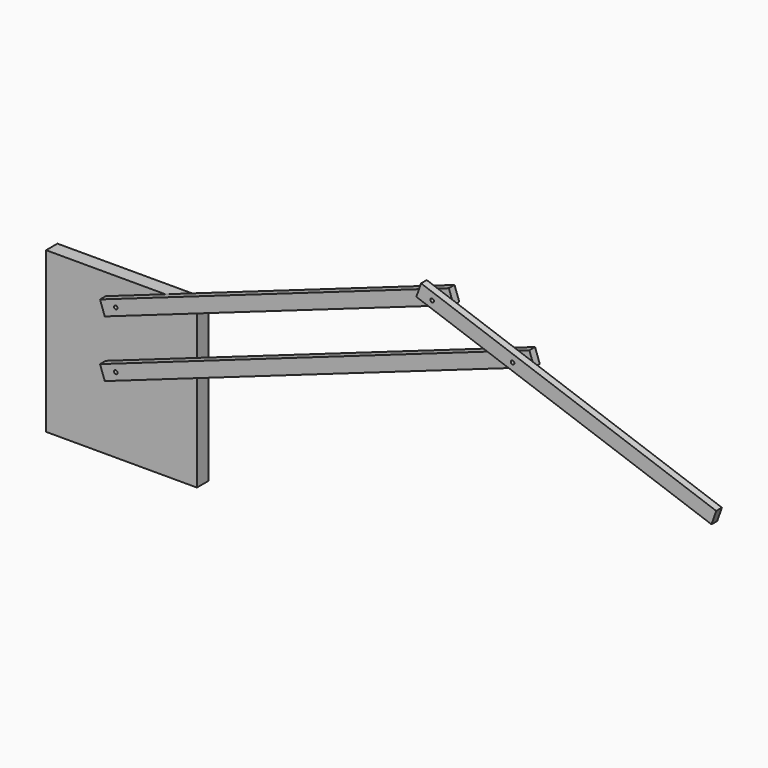
from build123d import *

# Parameters (mm, degrees)
F1_R     = 3.175
F2_DEPTH = 12.7
F3_R     = 3.175
F4_DEPTH = 12.7
F5_W     = 269.25847
F5_H     = 285.48178
F5_R     = 3.175
F6_DEPTH = 25.4


with BuildPart() as f2:
    # F1 (on Front) → F2 (new body)
    with BuildSketch(Plane.XZ):
        Polygon((-28.180683, 105.107008), (-19.714016, 81.159659), (602.917075, 301.292992), (594.450408, 325.240341), align=None)
        with Locations((0, 101.6)):
            Circle(F1_R, mode=Mode.SUBTRACT)
        with Locations((574.736392, 304.8)):
            Circle(F1_R, mode=Mode.SUBTRACT)
        Polygon((-28.180683, 3.507008), (-19.714016, -20.440341), (746.601173, 250.492992), (738.134506, 274.440341), align=None)
        Circle(F1_R, mode=Mode.SUBTRACT)
        with Locations((718.42049, 254)):
            Circle(F1_R, mode=Mode.SUBTRACT)
    extrude(amount=F2_DEPTH)


with BuildPart() as f4:
    # F3 (on face) → F4 (new body)
    with BuildSketch(Plane.XZ.offset(12.7)):
        Polygon((1081.864068, 138.973675), (555.022375, 325.240341), (546.555709, 301.292992), (1073.397401, 115.026325), align=None)
        with Locations((718.42049, 254)):
            Circle(F3_R, mode=Mode.SUBTRACT)
        with Locations((574.736392, 304.8)):
            Circle(F3_R, mode=Mode.SUBTRACT)
    extrude(amount=F4_DEPTH)


with BuildPart() as f6:
    # F5 (on Front) → F6 (new body)
    with BuildSketch(Plane.XZ):
        Rectangle(F5_W, F5_H)
        Circle(F5_R, mode=Mode.SUBTRACT)
        with Locations((0, 101.6)):
            Circle(F5_R, mode=Mode.SUBTRACT)
    extrude(amount=-F6_DEPTH)


solid = Compound([f2.part, f4.part, f6.part])
